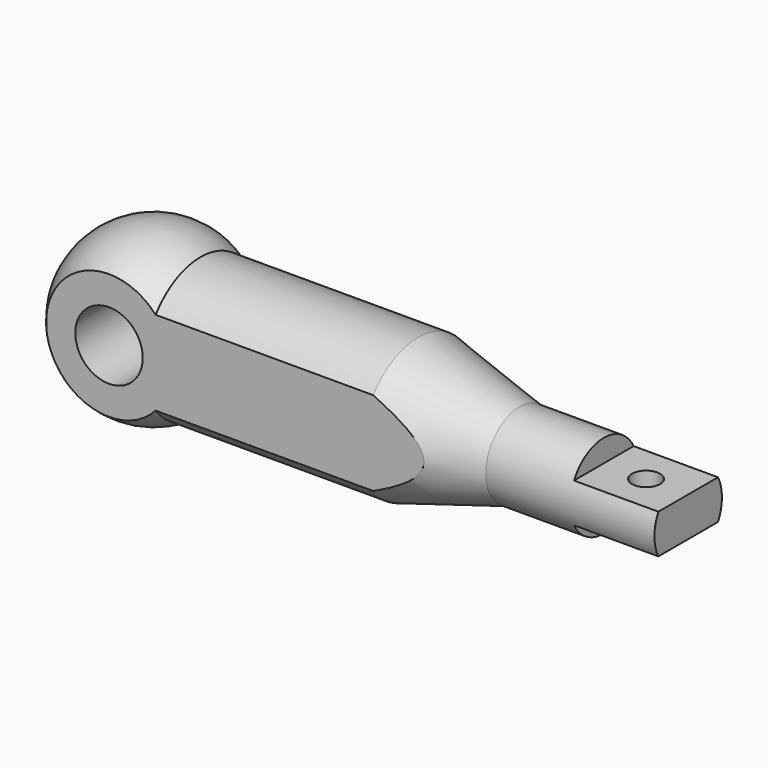
from build123d import *

# Parameters (mm, degrees)
F3_R     = 60
F6_DEPTH = 250
F2_W     = 50
F2_H     = 300
F7_DEPTH = 625
F0_W     = 150
F0_H     = 40
F8_DEPTH = 75
F1_R     = 25
F9_DEPTH = 35


with BuildPart() as f5:
    # F4 (on Front) → F5 (revolve)
    with BuildSketch(Plane.XZ):
        with BuildLine():
            Line((470, 125), (82.91562, 125))
            ThreePointArc((82.91562, 125), (-70.931858, 132.169102), (-150, 0))
            Line((-150, 0), (950, 0))
            Line((950, 0), (950, 75))
            Line((950, 75), (650, 75))
            Line((650, 75), (470, 125))
        make_face()
    revolve(axis=Axis((400, 0, 0), (1, 0, 0)))

    # F3 (on Front) → F6 (cut, symmetric)
    with BuildSketch(Plane.XZ):
        Circle(F3_R)
    extrude(amount=F6_DEPTH, both=True, mode=Mode.SUBTRACT)

    # F2 (on Right) → F7 (cut, symmetric)
    with BuildSketch(Plane.YZ):
        with Locations((-125, 0)):
            Rectangle(F2_W, F2_H)
        with Locations((125, 0)):
            Rectangle(F2_W, F2_H)
    extrude(amount=F7_DEPTH, both=True, mode=Mode.SUBTRACT)

    # F0 (on Front) → F8 (cut, symmetric)
    with BuildSketch(Plane.XZ):
        with Locations((875, 55)):
            Rectangle(F0_W, F0_H)
        with Locations((875, -55)):
            Rectangle(F0_W, F0_H)
    extrude(amount=F8_DEPTH, both=True, mode=Mode.SUBTRACT)

    # F1 (on Top) → F9 (cut, symmetric)
    with BuildSketch(Plane.XY):
        with Locations((875, 0)):
            Circle(F1_R)
    extrude(amount=F9_DEPTH, both=True, mode=Mode.SUBTRACT)


solid = f5.part
